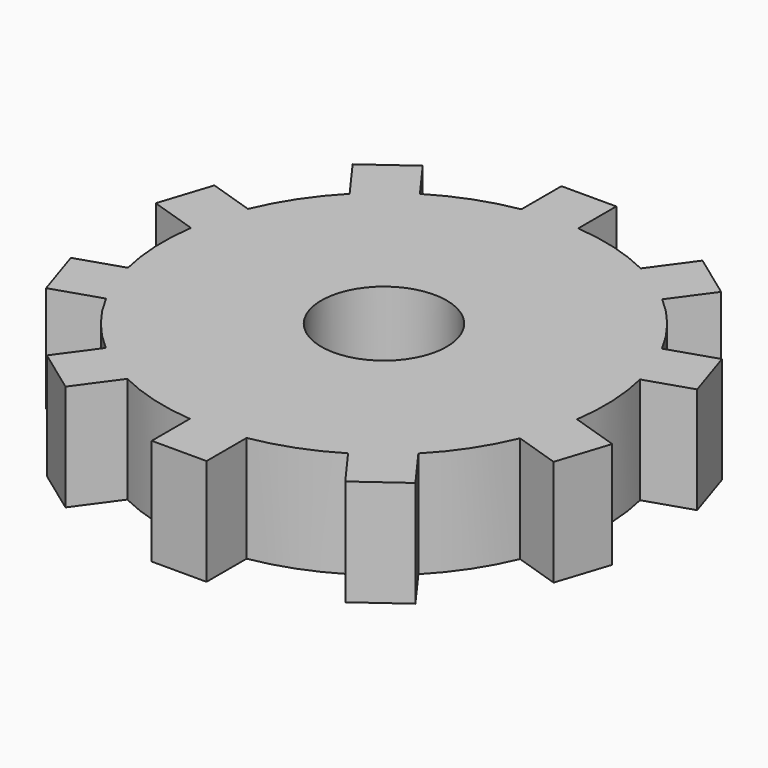
from build123d import *

# Parameters (mm, degrees)
F0_R     = 14.738334
F1_DEPTH = 25


with BuildPart() as f1:
    # F0 (on Top) → F1 (new body)
    with BuildSketch(Plane.XY):
        with BuildLine():
            Line((-44.077862, 45.871953), (-37.161494, 36.352389))
            ThreePointArc((-37.161494, 36.352389), (-43.351154, 28.690595), (-47.984569, 19.998848))
            Line((-47.984569, 19.998848), (-58.639717, 23.460916))
            Line((-58.639717, 23.460916), (-62.622597, 11.202873))
            Line((-62.622597, 11.202873), (-51.431678, 7.566723))
            ThreePointArc((-51.431678, 7.566723), (-51.935729, -2.26999), (-50.57536, -12.025214))
            Line((-50.57536, -12.025214), (-61.230508, -15.487281))
            Line((-61.230508, -15.487281), (-57.247628, -27.745324))
            Line((-57.247628, -27.745324), (-46.05671, -24.109175))
            ThreePointArc((-46.05671, -24.109175), (-40.682621, -32.363516), (-33.848082, -39.456053))
            Line((-33.848082, -39.456053), (-40.433326, -48.519863))
            Line((-40.433326, -48.519863), (-30.006012, -56.095751))
            Line((-30.006012, -56.095751), (-23.089644, -46.576187))
            ThreePointArc((-23.089644, -46.576187), (-13.890134, -50.095279), (-4.191988, -51.816021))
            Line((-4.191988, -51.816021), (-4.191988, -63.019507))
            Line((-4.191988, -63.019507), (8.696881, -63.019507))
            Line((8.696881, -63.019507), (8.696881, -51.252679))
            ThreePointArc((8.696881, -51.252679), (18.207912, -48.692348), (27.065304, -44.38403))
            Line((27.065304, -44.38403), (33.650547, -53.447841))
            Line((33.650547, -53.447841), (44.077862, -45.871953))
            Line((44.077862, -45.871953), (37.161494, -36.352389))
            ThreePointArc((37.161494, -36.352389), (43.351154, -28.690595), (47.984569, -19.998848))
            Line((47.984569, -19.998848), (58.639717, -23.460916))
            Line((58.639717, -23.460916), (62.622597, -11.202873))
            Line((62.622597, -11.202873), (51.431678, -7.566723))
            ThreePointArc((51.431678, -7.566723), (51.935729, 2.26999), (50.57536, 12.025214))
            Line((50.57536, 12.025214), (61.230508, 15.487281))
            Line((61.230508, 15.487281), (57.247628, 27.745324))
            Line((57.247628, 27.745324), (46.05671, 24.109175))
            ThreePointArc((46.05671, 24.109175), (40.682621, 32.363516), (33.848082, 39.456053))
            Line((33.848082, 39.456053), (40.433326, 48.519863))
            Line((40.433326, 48.519863), (30.006012, 56.095751))
            Line((30.006012, 56.095751), (23.089644, 46.576187))
            ThreePointArc((23.089644, 46.576187), (13.890134, 50.095279), (4.191988, 51.816021))
            Line((4.191988, 51.816021), (4.191988, 63.019507))
            Line((4.191988, 63.019507), (-8.696881, 63.019507))
            Line((-8.696881, 63.019507), (-8.696881, 51.252679))
            ThreePointArc((-8.696881, 51.252679), (-18.207912, 48.692348), (-27.065304, 44.38403))
            Line((-27.065304, 44.38403), (-33.650547, 53.447841))
            Line((-33.650547, 53.447841), (-44.077862, 45.871953))
        make_face()
        Circle(F0_R, mode=Mode.SUBTRACT)
    extrude(amount=F1_DEPTH)


solid = f1.part
